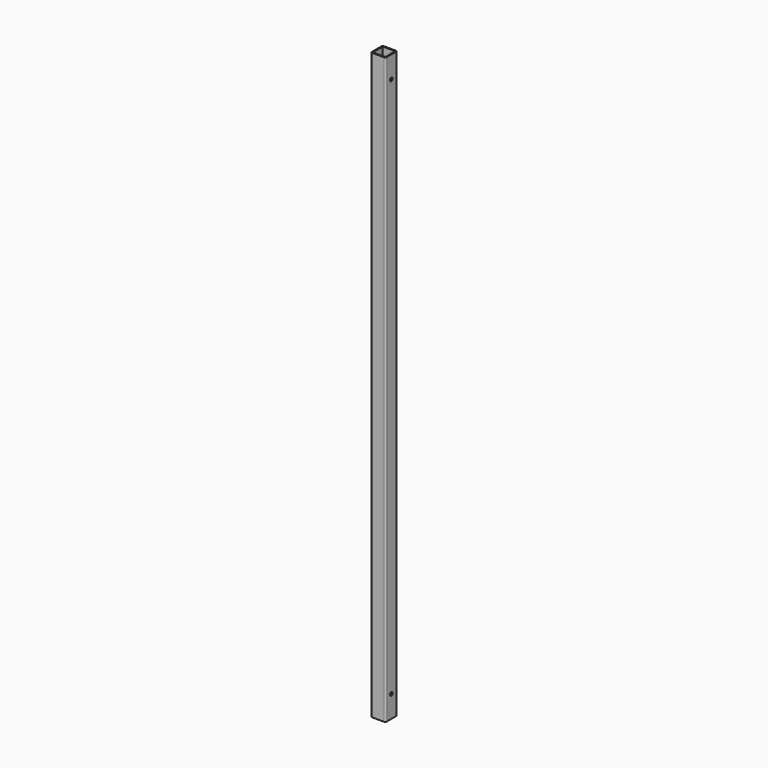
from build123d import *

# Parameters (mm, degrees)
F1_DEPTH = 1600
F2_R     = 4.5
F3_DEPTH = 40.001


with BuildPart() as f1:
    # F0 (on Top) → F1 (new body)
    with BuildSketch(Plane.XY):
        with BuildLine():
            Line((-15.5, -20), (15.5, -20))
            ThreePointArc((15.5, -20), (18.681981, -18.681981), (20, -15.5))
            Line((20, -15.5), (20, 15.5))
            ThreePointArc((20, 15.5), (18.681981, 18.681981), (15.5, 20))
            Line((15.5, 20), (-15.5, 20))
            ThreePointArc((-15.5, 20), (-18.681981, 18.681981), (-20, 15.5))
            Line((-20, 15.5), (-20, -15.5))
            ThreePointArc((-20, -15.5), (-18.681981, -18.681981), (-15.5, -20))
        make_face()
        with BuildLine():
            ThreePointArc((15.5, 17), (16.56066, 16.56066), (17, 15.5))
            Line((17, 15.5), (17, -15.5))
            ThreePointArc((17, -15.5), (16.56066, -16.56066), (15.5, -17))
            Line((15.5, -17), (-15.5, -17))
            ThreePointArc((-15.5, -17), (-16.56066, -16.56066), (-17, -15.5))
            Line((-17, -15.5), (-17, 15.5))
            ThreePointArc((-17, 15.5), (-16.56066, 16.56066), (-15.5, 17))
            Line((-15.5, 17), (15.5, 17))
        make_face(mode=Mode.SUBTRACT)
    extrude(amount=F1_DEPTH)

    # F2 (on face) → F3 (cut, through all)
    with BuildSketch(Plane.YZ.offset(20)):
        with Locations((0, 1540)):
            Circle(F2_R)
        with Locations((0, 60)):
            Circle(F2_R)
    extrude(amount=-F3_DEPTH, mode=Mode.SUBTRACT)


solid = f1.part
